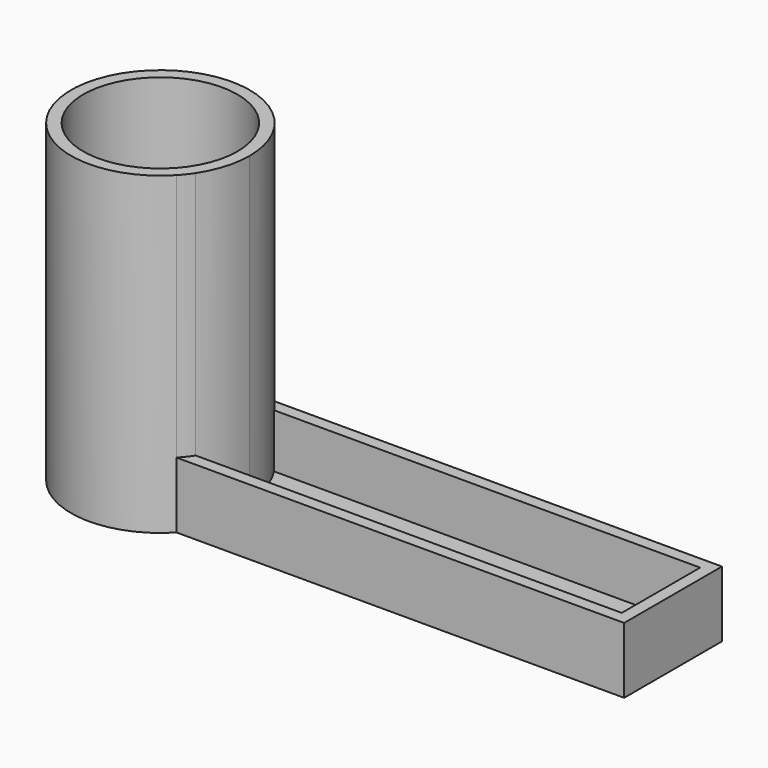
from build123d import *

# Parameters (mm, degrees)
F1_DEPTH = 10.9
F0_R     = 12.75
F2_DEPTH = 52
F3_DEPTH = 2
F4_DEPTH = 2


with BuildPart() as f1:
    # F0 (on Top) → F1 (new body)
    with BuildSketch(Plane.XY):
        with BuildLine():
            ThreePointArc((10.749535, 10.1), (11.581471, 9.134113), (12.326901, 8.1))
            Line((12.326901, 8.1), (82.75, 8.1))
            Line((82.75, 8.1), (82.75, 10.1))
            Line((82.75, 10.1), (10.749535, 10.1))
        make_face()
        Polygon((82.75, 8.1), (82.75, 0), (82.75, -8.1), (82.75, -10.1), (84.75, -10.1), (84.75, 10.1), (82.75, 10.1), align=None)
        with BuildLine():
            Line((82.75, -8.1), (12.326901, -8.1))
            ThreePointArc((12.326901, -8.1), (11.581471, -9.134113), (10.749535, -10.1))
            Line((10.749535, -10.1), (82.75, -10.1))
            Line((82.75, -10.1), (82.75, -8.1))
        make_face()
    extrude(amount=F1_DEPTH)

    # F0 (on Top) → F2 (join)
    with BuildSketch(Plane.XY):
        with BuildLine():
            ThreePointArc((12.326901, -8.1), (14.131247, -4.227334), (14.75, 0))
            ThreePointArc((14.75, 0), (14.131247, 4.227334), (12.326901, 8.1))
            ThreePointArc((12.326901, 8.1), (11.581471, 9.134113), (10.749535, 10.1))
            ThreePointArc((10.749535, 10.1), (-14.75, 0), (10.749535, -10.1))
            ThreePointArc((10.749535, -10.1), (11.581471, -9.134113), (12.326901, -8.1))
        make_face()
        Circle(F0_R, mode=Mode.SUBTRACT)
    extrude(amount=F2_DEPTH)

    # F0 (on Top) → F3 (join)
    with BuildSketch(Plane.XY):
        with BuildLine():
            ThreePointArc((12.326901, 8.1), (14.131247, 4.227334), (14.75, 0))
            Line((14.75, 0), (82.75, 0))
            Line((82.75, 0), (82.75, 8.1))
            Line((82.75, 8.1), (12.326901, 8.1))
        make_face()
        with BuildLine():
            Line((82.75, 0), (14.75, 0))
            ThreePointArc((14.75, 0), (14.131247, -4.227334), (12.326901, -8.1))
            Line((12.326901, -8.1), (82.75, -8.1))
            Line((82.75, -8.1), (82.75, 0))
        make_face()
    extrude(amount=F3_DEPTH)

    # F0 (on Top) → F4 (join)
    with BuildSketch(Plane.XY):
        Circle(F0_R)
    extrude(amount=F4_DEPTH)


solid = f1.part
